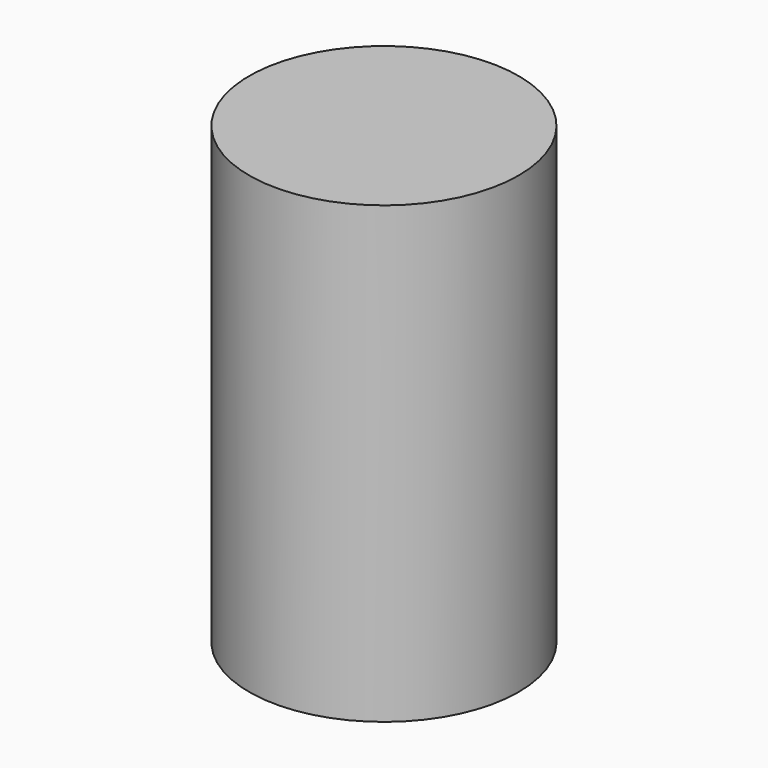
from build123d import *

# Parameters (mm, degrees)
F1_R = 12.316835


with BuildPart() as f2:
    # F2: sweep along a path in F0
    with BuildLine(Plane.YZ) as f2_path:
        Line((0, 0), (0, -41.562501))
    # F1 (on Top) → F2 (sweep)
    with BuildSketch(Plane.XY):
        Circle(F1_R)
    sweep(path=f2_path.line)


solid = f2.part
